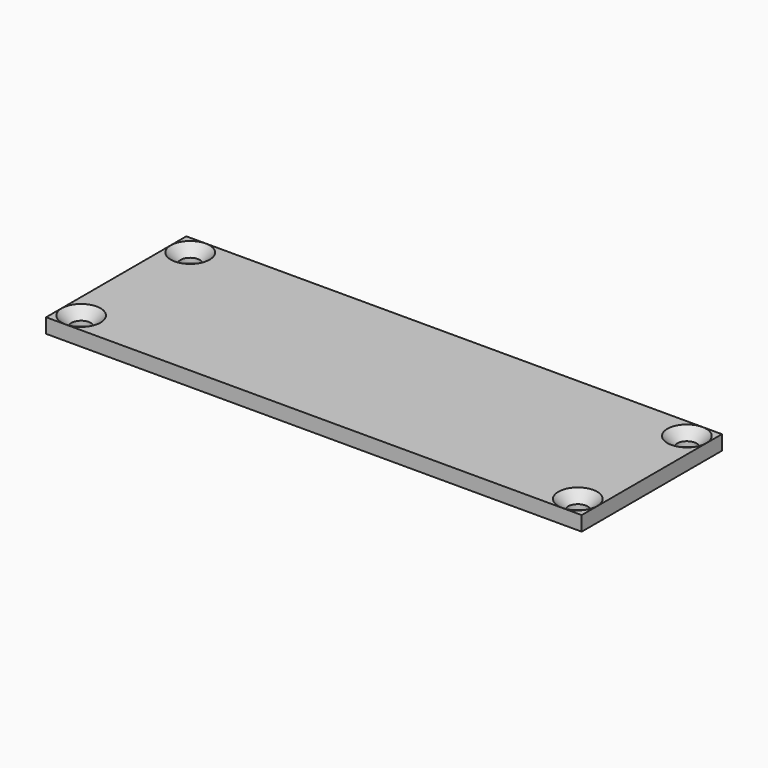
from build123d import *

# Parameters (mm, degrees)
SKETCH_W     = 110
SKETCH_H     = 36
PAD_DEPTH    = 3
SKETCH002_R  = 2
POCKET_DEPTH = 3
CHAMFER_SIZE = 1.99


with BuildPart() as part:
    # Sketch → Pad (new body)
    with BuildSketch(Plane.XY):
        Rectangle(SKETCH_W, SKETCH_H)
    extrude(amount=PAD_DEPTH)

    # Sketch002 (on Face6 of Pad) → Pocket (cut)
    with BuildSketch(Plane.XY.offset(3)):
        with Locations((-51, 14)):
            Circle(SKETCH002_R)
        with Locations((-51, -14)):
            Circle(SKETCH002_R)
        with Locations((51, -14)):
            Circle(SKETCH002_R)
        with Locations((51, 14)):
            Circle(SKETCH002_R)
    extrude(amount=-POCKET_DEPTH, mode=Mode.SUBTRACT)

    # Chamfer
    chamfer_edges = [part.edges().sort_by_distance(p)[0] for p in [
        (-53, 14, 3),
        (-53, -14, 3),
        (49, -14, 3),
        (49, 14, 3),
    ]]
    chamfer(chamfer_edges, length=CHAMFER_SIZE)


solid = part.part
